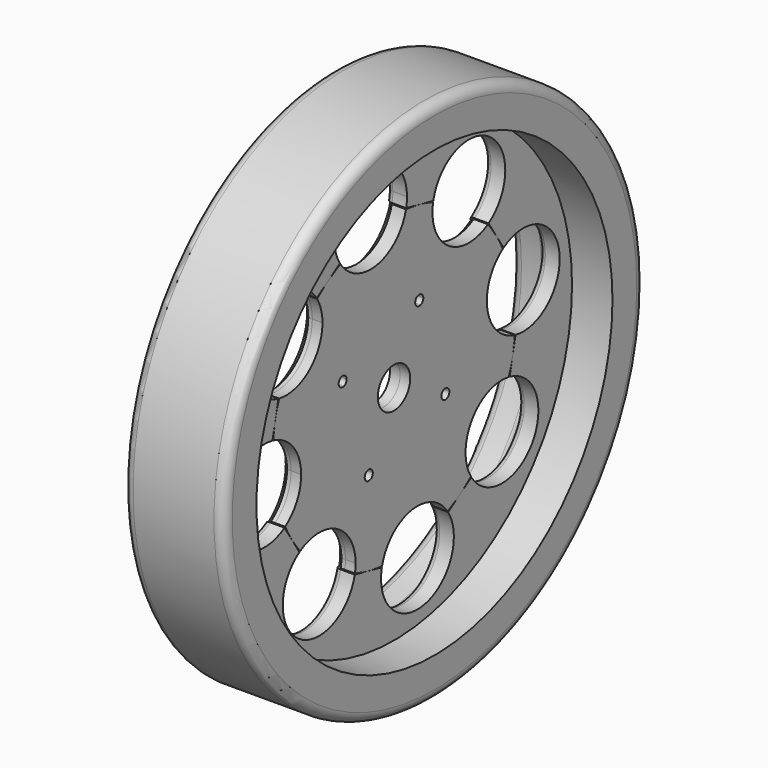
from build123d import *

# Parameters (mm, degrees)
F0_R     = 130
F0_R_2   = 110
F1_DEPTH = 25
F0_R_3   = 10
F2_DEPTH = 5
F3_R     = 5
F4_R     = 5
F5_R     = 3
F6_SIZE  = 3


with BuildPart() as f1:
    # F0 (on Right) → F1 (new body, symmetric)
    with BuildSketch(Plane.YZ):
        Circle(F0_R)
        Circle(F0_R_2, mode=Mode.SUBTRACT)
    extrude(amount=F1_DEPTH, both=True)



with BuildPart() as f2:
    # F0 (on Right) → F2 (new body, symmetric)
    with BuildSketch(Plane.YZ):
        with BuildLine():
            ThreePointArc((74.6339652914, -7.4007583991), (57.7384389627, 10.4664422545), (67.2873056081, 33.1273075272))
            ThreePointArc((67.2873056081, 33.1273075272), (65.280911118, 36.9242825741), (63.0604806749, 40.6001942982))
            ThreePointArc((63.0604806749, 40.6001942982), (60.6332940005, 44.1429910479), (58.0073094143, 47.5410565145))
            ThreePointArc((58.0073094143, 47.5410565145), (33.4263494326, 48.2281340187), (24.1547662883, 71.0038538782))
            ThreePointArc((24.1547662883, 71.0038538782), (20.0511654545, 72.2699852215), (15.8818230752, 73.2991657238))
            ThreePointArc((15.8818230752, 73.2991657238), (11.6604061892, 74.0880214846), (7.4007583991, 74.6339652914))
            ThreePointArc((7.4007583991, 74.6339652914), (-10.4664422545, 57.7384389627), (-33.1273075272, 67.2873056081))
            ThreePointArc((-33.1273075272, 67.2873056081), (-36.9242829234, 65.2809109203), (-40.6001949732, 63.0604802403))
            ThreePointArc((-40.6001949732, 63.0604802403), (-44.1429913724, 60.6332937642), (-47.5410565145, 58.0073094143))
            ThreePointArc((-47.5410565145, 58.0073094143), (-45.0666944658, 52.3551207818), (-44.2207010461, 46.2433289807))
            ThreePointArc((-44.2207010461, 46.2433289807), (-52.4049918203, 28.8850321357), (-71.0038538782, 24.1547662883))
            ThreePointArc((-71.0038538782, 24.1547662883), (-72.2699852096, 20.0511654975), (-73.2991657049, 15.8818231625))
            ThreePointArc((-73.2991657049, 15.8818231625), (-74.0880214777, 11.6604062334), (-74.6339652914, 7.4007583991))
            ThreePointArc((-74.6339652914, 7.4007583991), (-62.21081965, -0.5464997337), (-57.3776316621, -14.4796886483))
            ThreePointArc((-57.3776316621, -14.4796886483), (-60.0089082983, -25.0382790794), (-67.2873056081, -33.1273075272))
            ThreePointArc((-67.2873056081, -33.1273075272), (-65.2809109203, -36.9242829234), (-63.0604802403, -40.6001949732))
            ThreePointArc((-63.0604802403, -40.6001949732), (-60.6332937642, -44.1429913724), (-58.0073094143, -47.5410565145))
            ThreePointArc((-58.0073094143, -47.5410565145), (-35.2533235157, -47.0873167256), (-23.7433289807, -66.7207010461))
            ThreePointArc((-23.7433289807, -66.7207010461), (-23.8464245006, -68.872135384), (-24.1547662883, -71.0038538782))
            ThreePointArc((-24.1547662883, -71.0038538782), (-20.0511654897, -72.2699852117), (-15.8818231466, -73.2991657084))
            ThreePointArc((-15.8818231466, -73.2991657084), (-11.6604062253, -74.0880214789), (-7.4007583991, -74.6339652914))
            ThreePointArc((-7.4007583991, -74.6339652914), (10.4664422545, -57.7384389627), (33.1273075272, -67.2873056081))
            ThreePointArc((33.1273075272, -67.2873056081), (36.9242827563, -65.2809110149), (40.6001946503, -63.0604804482))
            ThreePointArc((40.6001946503, -63.0604804482), (44.1429912172, -60.6332938772), (47.5410565145, -58.0073094143))
            ThreePointArc((47.5410565145, -58.0073094143), (48.2281340187, -33.4263494326), (71.0038538782, -24.1547662883))
            ThreePointArc((71.0038538782, -24.1547662883), (72.2699851448, -20.0511657311), (73.2991656022, -15.8818236363))
            ThreePointArc((73.2991656022, -15.8818236363), (74.08802144, -11.6604064728), (74.6339652914, -7.4007583991))
        make_face()
        with BuildLine():
            ThreePointArc((-30.9201459321, 13.2361087762), (-33.9697256878, 16.7058203029), (-29.3598906135, 16.4087422786))
            Line((-29.3598906135, 16.4087422786), (13.2361087762, 30.9201459321))
            ThreePointArc((13.2361087762, 30.9201459321), (15.1939647791, 34.1927201345), (18.1025531867, 31.726335024))
            ThreePointArc((18.1025531867, 31.726335024), (17.6354664571, 30.2712530211), (16.4087422786, 29.3598906135))
            Line((16.4087422786, 29.3598906135), (30.9201459321, -13.2361087762))
            ThreePointArc((30.9201459321, -13.2361087762), (33.1814170269, -13.5696399163), (34.226335024, -15.6025531867))
            ThreePointArc((34.226335024, -15.6025531867), (32.1349234316, -18.0689382972), (29.3598906135, -16.4087422786))
            Line((29.3598906135, -16.4087422786), (-13.2361087762, -30.9201459321))
            ThreePointArc((-13.2361087762, -30.9201459321), (-13.1361680762, -31.3177466164), (-13.1025531867, -31.726335024))
            ThreePointArc((-13.1025531867, -31.726335024), (-17.0576351896, -33.7592482944), (-16.4087422786, -29.3598906135))
            Line((-16.4087422786, -29.3598906135), (-30.9201459321, 13.2361087762))
        make_face(mode=Mode.SUBTRACT)
        with BuildLine():
            Line((13.2361087762, 30.9201459321), (-29.3598906135, 16.4087422786))
            ThreePointArc((-29.3598906135, 16.4087422786), (-29.2599499135, 16.0111415943), (-29.226335024, 15.6025531867))
            ThreePointArc((-29.226335024, 15.6025531867), (-29.6934217536, 14.1474711838), (-30.9201459321, 13.2361087762))
            Line((-30.9201459321, 13.2361087762), (-16.4087422786, -29.3598906135))
            ThreePointArc((-16.4087422786, -29.3598906135), (-14.4992860705, -29.4829443602), (-13.2361087762, -30.9201459321))
            Line((-13.2361087762, -30.9201459321), (29.3598906135, -16.4087422786))
            ThreePointArc((29.3598906135, -16.4087422786), (29.4829443602, -14.4992860705), (30.9201459321, -13.2361087762))
            Line((30.9201459321, -13.2361087762), (16.4087422786, 29.3598906135))
            ThreePointArc((16.4087422786, 29.3598906135), (14.4992860705, 29.4829443602), (13.2361087762, 30.9201459321))
        make_face()
        Circle(F0_R_3, mode=Mode.SUBTRACT)
    extrude(amount=F2_DEPTH, both=True)


with BuildPart() as f1_1:
    add(f1.part)

    add(f2.part)  # F2#2 merges F2
    # F0 (on Right) → F2, piece 2 (join, symmetric)
    with BuildSketch(Plane.YZ):
        Circle(F0_R_2)
        with BuildLine():
            Line((58.4233874349, 47.8025569497), (63.0604806749, 40.6001942982))
            Line((63.0604806749, 40.6001942982), (67.697573208, 33.3978327447))
            ThreePointArc((67.697573208, 33.3978327447), (90.6525721441, 34.2319203604), (102.3776316621, 14.4796886483))
            ThreePointArc((102.3776316621, 14.4796886483), (94.0029230552, -3.0339101555), (75.1130856123, -7.5100612579))
            Line((75.1130856123, -7.5100612579), (73.2991656022, -15.8818236363))
            Line((73.2991656022, -15.8818236363), (71.485247096, -24.2535790745))
            ThreePointArc((71.485247096, -24.2535790745), (84.2342998499, -32.1180375877), (89.2207010461, -46.2433289807))
            ThreePointArc((89.2207010461, -46.2433289807), (73.0686045516, -67.8292994496), (47.8025569497, -58.4233874349))
            Line((47.8025569497, -58.4233874349), (40.6001946503, -63.0604804482))
            Line((40.6001946503, -63.0604804482), (33.3978327447, -67.697573208))
            ThreePointArc((33.3978327447, -67.697573208), (36.0656591172, -73.5297281566), (36.9796886483, -79.8776316621))
            ThreePointArc((36.9796886483, -79.8776316621), (12.0837935014, -102.2497054696), (-7.5100612579, -75.1130856123))
            Line((-7.5100612579, -75.1130856123), (-15.8818231466, -73.2991657084))
            Line((-15.8818231466, -73.2991657084), (-24.2535790745, -71.485247096))
            ThreePointArc((-24.2535790745, -71.485247096), (-59.0603085289, -85.2132680735), (-58.4233874349, -47.8025569497))
            Line((-58.4233874349, -47.8025569497), (-63.0604802403, -40.6001949732))
            Line((-63.0604802403, -40.6001949732), (-67.697573208, -33.3978327447))
            ThreePointArc((-67.697573208, -33.3978327447), (-102.0168243616, -18.4929350421), (-75.1130856123, 7.5100612579))
            Line((-75.1130856123, 7.5100612579), (-73.2991657049, 15.8818231625))
            Line((-73.2991657049, 15.8818231625), (-71.485247096, 24.2535790745))
            ThreePointArc((-71.485247096, 24.2535790745), (-85.2132680735, 59.0603085289), (-47.8025569497, 58.4233874349))
            Line((-47.8025569497, 58.4233874349), (-40.6001949732, 63.0604802403))
            Line((-40.6001949732, 63.0604802403), (-33.3978327447, 67.697573208))
            ThreePointArc((-33.3978327447, 67.697573208), (-20.8275921538, 101.463602131), (8.0203113517, 79.8776316621))
            ThreePointArc((8.0203113517, 79.8776316621), (7.8923851591, 77.4817365152), (7.5100612579, 75.1130856123))
            Line((7.5100612579, 75.1130856123), (15.8818230752, 73.2991657238))
            Line((15.8818230752, 73.2991657238), (24.2535790745, 71.485247096))
            ThreePointArc((24.2535790745, 71.485247096), (48.6392241276, 89.0927748535), (68.7433289807, 66.7207010461))
            ThreePointArc((68.7433289807, 66.7207010461), (65.9955606928, 55.9457605641), (58.4233874349, 47.8025569497))
        make_face(mode=Mode.SUBTRACT)
    extrude(amount=F2_DEPTH, both=True)

    # F3
    f3_edges = [f1_1.edges().sort_by_distance(p)[0] for p in [
        (-5, -110, 0),
        (-15, 110, 0),
        (-25, -110, 0),
    ]]
    fillet(f3_edges, radius=F3_R)

    # F4
    f4_edges = [f1_1.edges().sort_by_distance(p)[0] for p in [
        (-25, -130, 0),
        (25, -130, 0),
    ]]
    fillet(f4_edges, radius=F4_R)

    # F5
    f5_edges = [f1_1.edges().sort_by_distance(p)[0] for p in [
        (-5, 48.639224, 89.092775),
        (-5, -20.827592, 101.463602),
        (-5, -85.213268, 59.060309),
        (-5, 90.652572, 34.23192),
        (-5, 84.2343, -32.118038),
        (-5, 36.065659, -73.529728),
        (-5, -102.016824, -18.492935),
        (-5, -59.060309, -85.213268),
    ]]
    fillet(f5_edges, radius=F5_R)

    # F6
    f6_edges = [f1_1.edges().sort_by_distance(p)[0] for p in [
        (-5, 10.466442, -57.738439),
        (-5, -33.426349, -48.228134),
        (-5, -57.738439, -10.466442),
        (-5, -48.228134, 33.426349),
        (-5, 48.228134, -33.426349),
        (-5, 57.738439, 10.466442),
        (-5, 33.426349, 48.228134),
        (-5, -10.466442, 57.738439),
    ]]
    chamfer(f6_edges, length=F6_SIZE)


solid = f1_1.part
